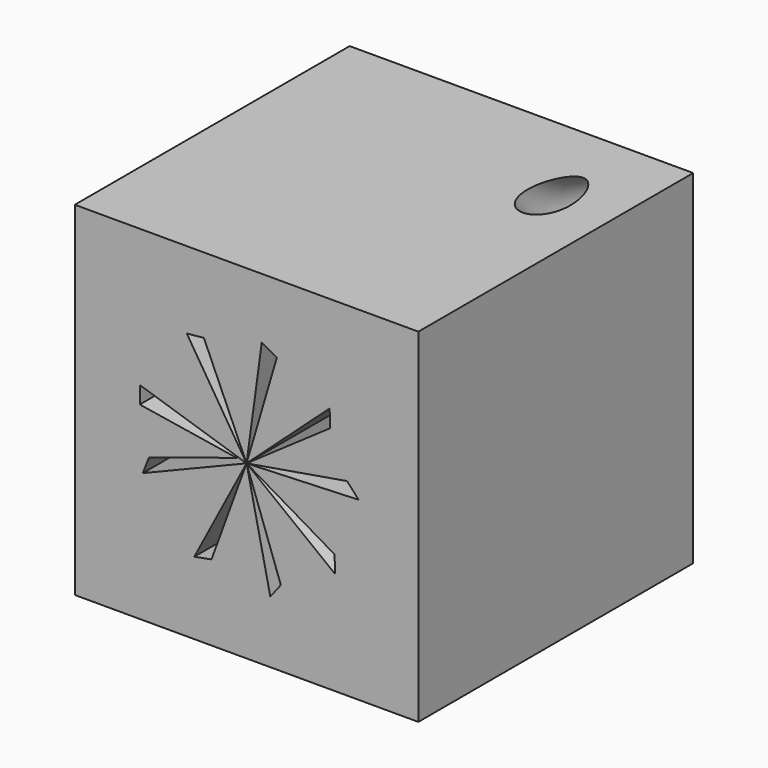
from build123d import *

# Parameters (mm, degrees)
F0_W     = 25.4
F0_H     = 25.4
F1_DEPTH = 25.4
F2_R     = 1.5875


with BuildPart() as f1:
    # F0 (on Front) → F1 (new body)
    with BuildSketch(Plane.XZ):
        with Locations((12.7, 12.7)):
            Rectangle(F0_W, F0_H)
        with BuildLine():
            ThreePointArc((12.705212, 12.717705), (12.709806, 12.715636), (12.713669, 12.712402))
            Line((12.713669, 12.712402), (18.839256, 18.270461))
            Line((18.839256, 18.270461), (18.888431, 17.001414))
            Line((18.888431, 17.001414), (12.715155, 12.710534))
            ThreePointArc((12.715155, 12.710534), (12.717086, 12.706979), (12.718196, 12.703089))
            Line((12.718196, 12.703089), (20.130168, 13.961521))
            Line((20.130168, 13.961521), (20.983567, 13.020983))
            Line((20.983567, 13.020983), (12.718443, 12.700715))
            ThreePointArc((12.718443, 12.700715), (12.718453, 12.700357), (12.718457, 12.7))
            ThreePointArc((12.718457, 12.7), (12.717813, 12.695167), (12.715926, 12.690672))
            Line((12.715926, 12.690672), (19.202692, 8.891313))
            Line((19.202692, 8.891313), (19.251904, 7.621313))
            Line((19.251904, 7.621313), (12.714587, 12.688693))
            ThreePointArc((12.714587, 12.688693), (12.71083, 12.685055), (12.706202, 12.682617))
            Line((12.706202, 12.682617), (15.232591, 5.601773))
            Line((15.232591, 5.601773), (14.454533, 4.598018))
            Line((14.454533, 4.598018), (12.703906, 12.681962))
            ThreePointArc((12.703906, 12.681962), (12.698736, 12.681587), (12.693665, 12.682665))
            Line((12.693665, 12.682665), (10.106196, 5.601773))
            Line((10.106196, 5.601773), (8.836196, 5.365729))
            Line((8.836196, 5.365729), (12.691398, 12.683671))
            ThreePointArc((12.691398, 12.683671), (12.686331, 12.687598), (12.682914, 12.693021))
            Line((12.682914, 12.693021), (5.025776, 9.565228))
            Line((5.025776, 9.565228), (5.493536, 10.745948))
            Line((5.493536, 10.745948), (11.965962, 12.817308))
            Line((11.965962, 12.817308), (4.806211, 13.961521))
            Line((4.806211, 13.961521), (4.806211, 15.231521))
            Line((4.806211, 15.231521), (12.682425, 12.705636))
            ThreePointArc((12.682425, 12.705636), (12.685413, 12.711307), (12.69016, 12.715615))
            Line((12.69016, 12.715615), (12.515285, 12.993107))
            Line((12.515285, 12.993107), (8.280237, 19.713287))
            Line((8.280237, 19.713287), (9.544288, 19.836069))
            Line((9.544288, 19.836069), (12.692535, 12.71688))
            ThreePointArc((12.692535, 12.71688), (12.697419, 12.718275), (12.702499, 12.718287))
            Line((12.702499, 12.718287), (13.82232, 20.913459))
            Line((13.82232, 20.913459), (14.940951, 20.312158))
            Line((14.940951, 20.312158), (12.705212, 12.717705))
        make_face(mode=Mode.SUBTRACT)
    extrude(amount=F1_DEPTH)

    # F2 (on Front) → F3 (revolve, cut)
    with BuildSketch(Plane.XZ):
        with Locations((20.805778, 22.889411)):
            Circle(F2_R)
    revolve(axis=Axis((14.381558, 0, 35.589411), (1, 0, 0)), mode=Mode.SUBTRACT)


solid = f1.part
